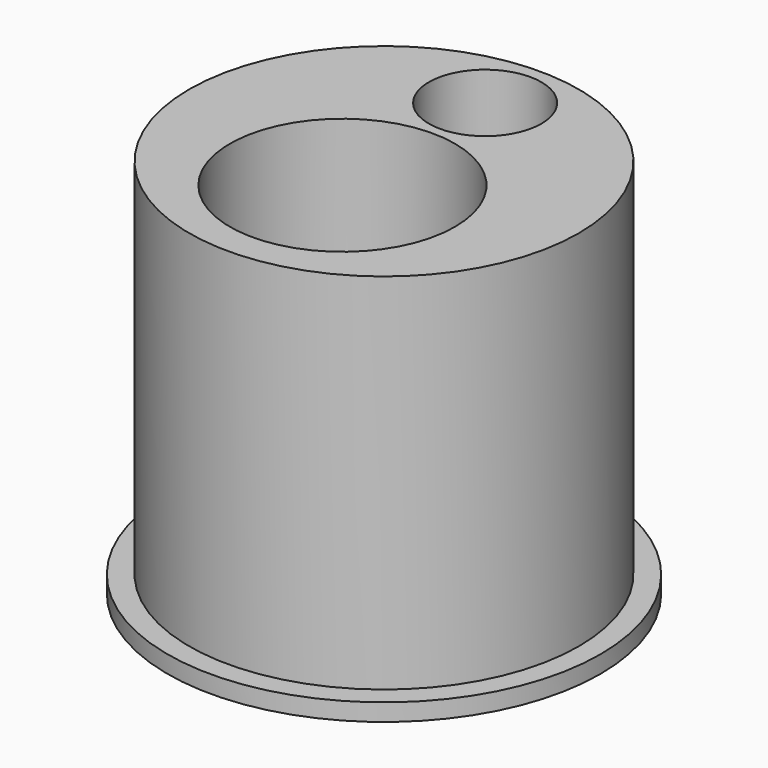
from build123d import *

# Parameters (mm, degrees)
F0_R     = 11.25
F0_R_2   = 6.5
F0_R_3   = 3.25
F1_DEPTH = 22
F0_R_4   = 12.5
F2_DEPTH = 1


with BuildPart() as f1:
    # F0 (on Top) → F1 (new body)
    with BuildSketch(Plane.XY):
        Circle(F0_R)
        with Locations((0, -3)):
            Circle(F0_R_2, mode=Mode.SUBTRACT)
        with Locations((0, 7.3)):
            Circle(F0_R_3, mode=Mode.SUBTRACT)
    extrude(amount=F1_DEPTH)

    # F0 (on Top) → F2 (join)
    with BuildSketch(Plane.XY):
        Circle(F0_R_4)
        Circle(F0_R, mode=Mode.SUBTRACT)
    extrude(amount=F2_DEPTH)


solid = f1.part
